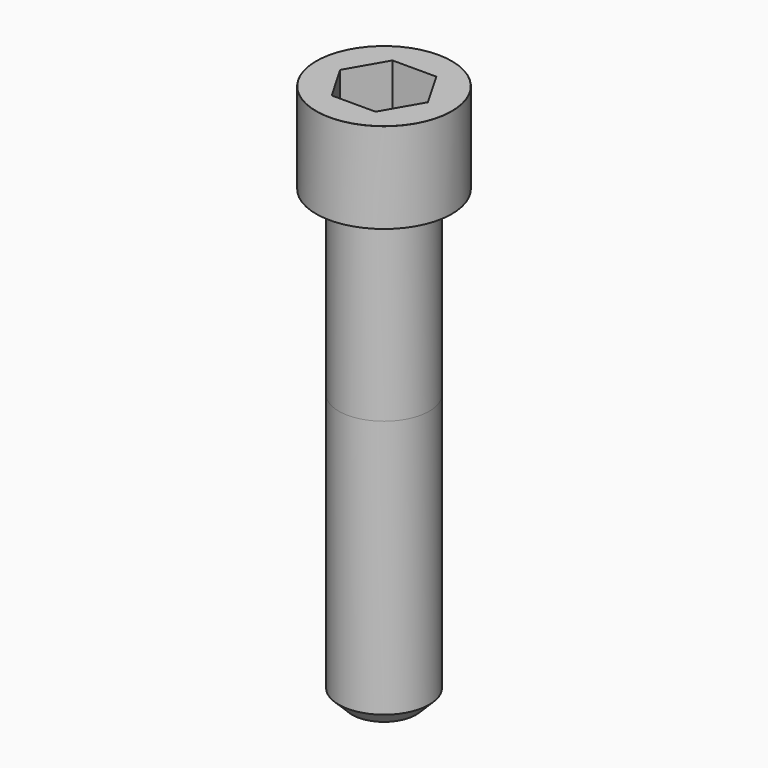
from build123d import *

# Parameters (mm, degrees)
POCKET_DEPTH = 10.07


with BuildPart() as part:
    # Sketch → Revolve (revolve)
    with BuildSketch(Plane.YZ):
        with BuildLine():
            Line((5.999, 0), (9, 0))
            Line((9, 0), (9, 11.97229))
            ThreePointArc((9, 11.97229), (8.991884, 11.991884), (8.97229, 12))
            Line((8.97229, 12), (0, 12))
            Line((0, -60), (0, 12))
            Line((4.25, -60), (0, -60))
            Line((6, -58.25), (4.25, -60))
            Line((6, -24), (6, -58.25))
            Line((5.999, 0), (6, -24))
        make_face()
    revolve(axis=Axis((0, 0, 0), (0, 0, 1)))

    # Sketch001 → Pocket (cut)
    with BuildSketch(Plane.XY.offset(12)):
        Polygon((5.813917, 0), (2.906959, 5.035), (-2.906959, 5.035), (-5.813917, 0), (-2.906959, -5.035), (2.906959, -5.035), align=None)
    extrude(amount=-POCKET_DEPTH, mode=Mode.SUBTRACT)


solid = part.part
